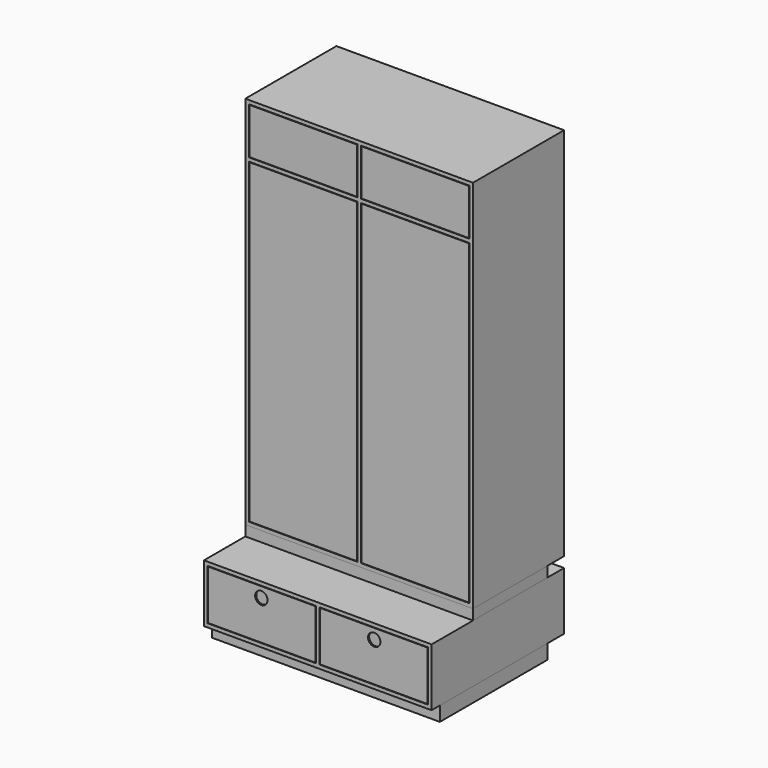
from build123d import *

# Parameters (mm, degrees)
F0_W      = 1100
F0_H      = 800
F1_DEPTH  = 280
F2_T      = -18
F3_W      = 18
F3_H      = 244
F4_DEPTH  = 782
F5_W      = 519
F5_H      = 240
F6_DEPTH  = 18
F8_R      = 30
F9_DEPTH  = 15
F10_R     = 40
F11_DEPTH = 8
F13_W     = 1100
F13_H     = 650
F13_W_2   = 523
F13_H_2   = 614
F14_DEPTH = 70
F15_W     = 1100
F15_H     = 450
F15_W_2   = 523
F15_H_2   = 414
F16_DEPTH = 50
F17_W     = 1100
F17_H     = 550
F18_DEPTH = 1812
F19_T     = -18
F20_W     = 18
F20_H     = 1532
F20_W_2   = 523
F20_H_2   = 18
F20_H_3   = 226
F21_DEPTH = 532
F22_W     = 519
F22_H     = 1528
F23_DEPTH = 18
F22_H_2   = 222


with BuildPart() as f1:
    # F0 (on Top) → F1 (new body)
    with BuildSketch(Plane.XY):
        with Locations((-550, 400)):
            Rectangle(F0_W, F0_H)
    extrude(amount=F1_DEPTH)

    # F2
    f2_openings = [f1.faces().sort_by_distance(p)[0] for p in [
        (-550, 0, 140),
    ]]
    offset(amount=F2_T, openings=f2_openings)

    # F3 (on face) → F4 (join, through all)
    with BuildSketch(Plane.XZ):
        with Locations((-550, 140)):
            Rectangle(F3_W, F3_H)
    extrude(amount=-F4_DEPTH)


with BuildPart() as f6:
    # F5 (on face) → F6 (new body)
    with BuildSketch(Plane.XZ):
        with Locations((-820.5, 140)):
            Rectangle(F5_W, F5_H)
    extrude(amount=-F6_DEPTH)

    # F8 (on face) → F9 (cut)
    with BuildSketch(Plane.XZ):
        with Locations((-822.75, 210)):
            Circle(F8_R)
    extrude(amount=-F9_DEPTH, mode=Mode.SUBTRACT)

    # F10 (on face) → F11 (cut)
    with BuildSketch(Plane.XZ.offset(-15)):
        with Locations((-822.75, 210)):
            Circle(F10_R)
    extrude(amount=F11_DEPTH, mode=Mode.SUBTRACT)


with BuildPart() as f12_1:
    # F12: instance of F6
    add(f6.part.mirror(Plane(origin=(-550, 400, 140), x_dir=(0, 1, 0), z_dir=(1, 0, 0))))


with BuildPart() as f14:
    # F13 (on face) → F14 (new body)
    with BuildSketch(Plane(origin=(0, 0, 0), x_dir=(1, 0, 0), z_dir=(0, 0, -1))):
        with Locations((-550, -375)):
            Rectangle(F13_W, F13_H)
        with Locations((-820.5, -375)):
            Rectangle(F13_W_2, F13_H_2, mode=Mode.SUBTRACT)
        with Locations((-279.5, -375)):
            Rectangle(F13_W_2, F13_H_2, mode=Mode.SUBTRACT)
    extrude(amount=F14_DEPTH)


with BuildPart() as f16:
    # F15 (on face) → F16 (new body)
    with BuildSketch(Plane.XY.offset(280)):
        with Locations((-550, 475)):
            Rectangle(F15_W, F15_H)
        with Locations((-820.5, 475)):
            Rectangle(F15_W_2, F15_H_2, mode=Mode.SUBTRACT)
        with Locations((-279.5, 475)):
            Rectangle(F15_W_2, F15_H_2, mode=Mode.SUBTRACT)
    extrude(amount=F16_DEPTH)


with BuildPart() as f18:
    # F17 (on face) → F18 (new body)
    with BuildSketch(Plane.XY.offset(330)):
        with Locations((-550, 525)):
            Rectangle(F17_W, F17_H)
    extrude(amount=F18_DEPTH)

    # F19
    f19_openings = [f18.faces().sort_by_distance(p)[0] for p in [
        (-550, 250, 1236),
    ]]
    offset(amount=F19_T, openings=f19_openings)

    # F20 (on face) → F21 (join, through all)
    with BuildSketch(Plane.XZ.offset(-250)):
        with Locations((-550, 1114)):
            Rectangle(F20_W, F20_H)
        with Locations((-820.5, 1889)):
            Rectangle(F20_W_2, F20_H_2)
        with Locations((-550, 1889)):
            Rectangle(F20_W, F20_H_2)
        with Locations((-279.5, 1889)):
            Rectangle(F20_W_2, F20_H_2)
        with Locations((-550, 2011)):
            Rectangle(F20_W, F20_H_3)
    extrude(amount=-F21_DEPTH)


with BuildPart() as f23:
    # F22 (on face) → F23 (new body)
    with BuildSketch(Plane.XZ.offset(-250)):
        with Locations((-820.5, 1114)):
            Rectangle(F22_W, F22_H)
    extrude(amount=-F23_DEPTH)


with BuildPart() as f23b:
    # F22 (on face) → F23, piece 2 (new body)
    with BuildSketch(Plane.XZ.offset(-250)):
        with Locations((-820.5, 2011)):
            Rectangle(F22_W, F22_H_2)
    extrude(amount=-F23_DEPTH)


with BuildPart() as f23c:
    # F22 (on face) → F23, piece 3 (new body)
    with BuildSketch(Plane.XZ.offset(-250)):
        with Locations((-279.5, 2011)):
            Rectangle(F22_W, F22_H_2)
    extrude(amount=-F23_DEPTH)


with BuildPart() as f23d:
    # F22 (on face) → F23, piece 4 (new body)
    with BuildSketch(Plane.XZ.offset(-250)):
        with Locations((-279.5, 1114)):
            Rectangle(F22_W, F22_H)
    extrude(amount=-F23_DEPTH)


solid = Compound([f1.part, f6.part, f12_1.part, f14.part, f16.part, f18.part, f23.part, f23b.part, f23c.part, f23d.part])
